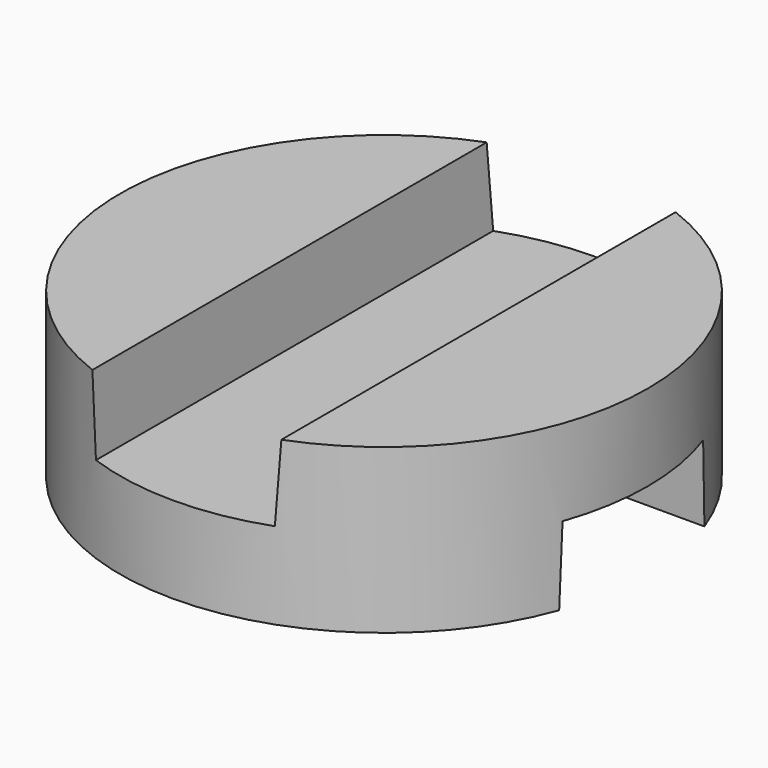
from build123d import *

# Parameters (mm, degrees)
F0_R          = 12.7
F1_DEPTH      = 7.874
F3_DEPTH      = 25.4
F3_DEPTH_BACK = 25.4
F5_DEPTH      = 25.4
F5_DEPTH_BACK = 25.4


with BuildPart() as f1:
    # F0 (on Top) → F1 (new body)
    with BuildSketch(Plane.XY):
        Circle(F0_R)
    extrude(amount=F1_DEPTH)

    # F2 (on Front) → F3 (cut, two sides)
    with BuildSketch(Plane.XZ) as f3_sk:
        Polygon((4.5466, 7.874), (-4.5466, 7.874), (-4.3053, 4.1656), (4.3053, 4.1656), align=None)
    extrude(amount=-F3_DEPTH, mode=Mode.SUBTRACT)
    extrude(f3_sk.sketch, amount=F3_DEPTH_BACK, mode=Mode.SUBTRACT)

    # F4 (on Right) → F5 (cut, two sides)
    with BuildSketch(Plane.YZ) as f5_sk:
        Polygon((4.3688, 0), (4.2291, 3.7338), (-4.2291, 3.7338), (-4.3688, 0), align=None)
    extrude(amount=-F5_DEPTH, mode=Mode.SUBTRACT)
    extrude(f5_sk.sketch, amount=F5_DEPTH_BACK, mode=Mode.SUBTRACT)


solid = f1.part
